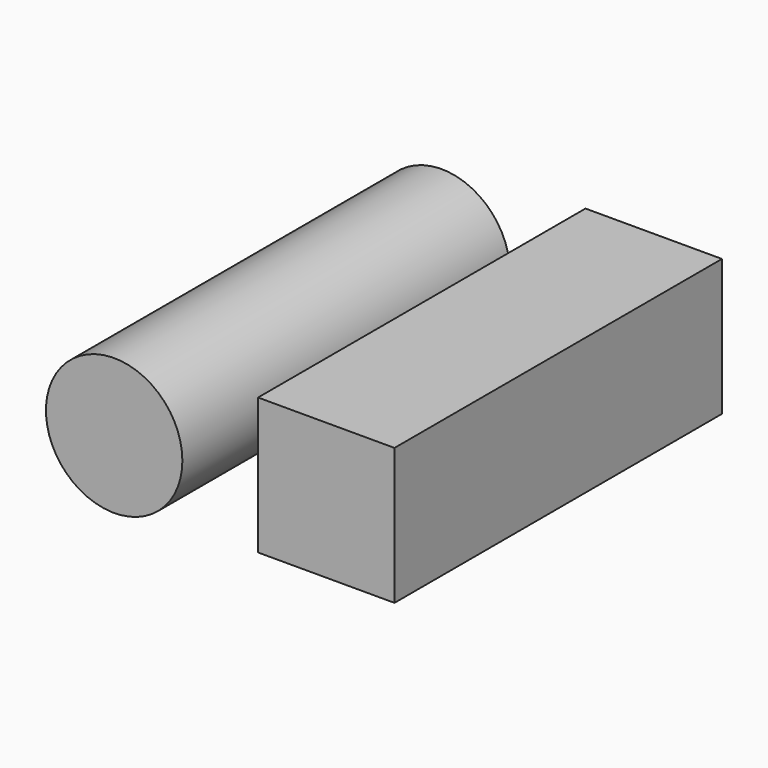
from build123d import *

# Parameters (mm, degrees)
F0_R     = 12.7
F1_DEPTH = 76.2
F2_W     = 25.4
F2_H     = 25.4
F3_DEPTH = 76.2


with BuildPart() as f1:
    # F0 (on Front) → F1 (new body)
    with BuildSketch(Plane.XZ):
        with Locations((-52.189015, 51.005144)):
            Circle(F0_R)
    extrude(amount=F1_DEPTH)


with BuildPart() as f3:
    # F2 (on Front) → F3 (new body)
    with BuildSketch(Plane.XZ):
        with Locations((-12.7, 53.247609)):
            Rectangle(F2_W, F2_H)
    extrude(amount=F3_DEPTH)


solid = Compound([f1.part, f3.part])
